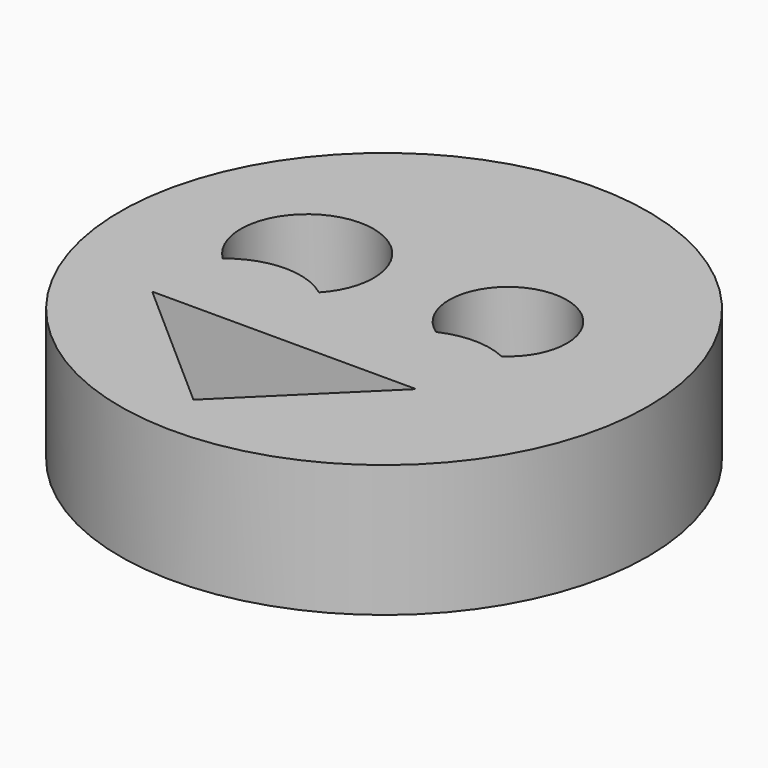
from build123d import *

# Parameters (mm, degrees)
F0_R     = 50.8
F1_DEPTH = 25.4


with BuildPart() as f1:
    # F0 (on Top) → F1 (new body)
    with BuildSketch(Plane.XY):
        Circle(F0_R)
        Polygon((-3.934918, -40.953953), (-30.750657, -17.344443), (20.049343, -17.344443), align=None, mode=Mode.SUBTRACT)
        with BuildLine():
            ThreePointArc((-29.195861, -2.316432), (-20.606169, 19.678536), (-11.022453, -1.901868))
            ThreePointArc((-11.022453, -1.901868), (-20.181581, 1.065741), (-29.195861, -2.316432))
        make_face(mode=Mode.SUBTRACT)
        with BuildLine():
            ThreePointArc((10.762538, -0.96585), (17.137034, 19.739171), (23.408223, -0.997373))
            ThreePointArc((23.408223, -0.997373), (17.08885, 0.410144), (10.762538, -0.96585))
        make_face(mode=Mode.SUBTRACT)
    extrude(amount=F1_DEPTH)


solid = f1.part
